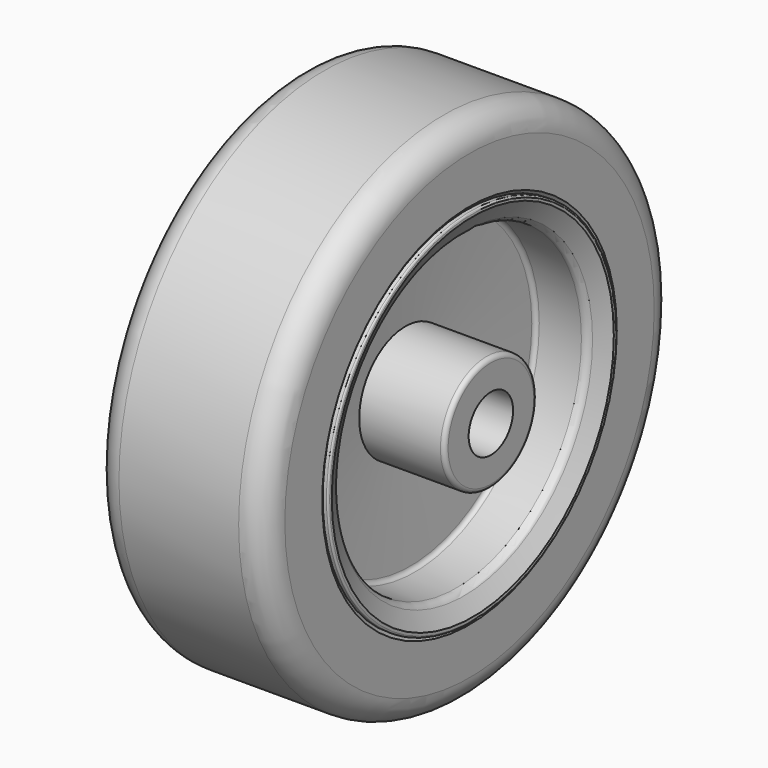
from build123d import *


with BuildPart() as f1:
    # F0 (on Top) → F1 (revolve)
    with BuildSketch(Plane.XY):
        with BuildLine():
            Line((7, 30), (0, 30))
            Line((0, 30), (-7, 30))
            ThreePointArc((-7, 30), (-9.12132, 29.12132), (-10, 27))
            Line((-10, 27), (-10, 21.532534))
            Line((-10, 21.532534), (-8.990306, 20.039031))
            Line((-8.990306, 20.039031), (0, 20.039031))
            Line((0, 20.039031), (8.990306, 20.039031))
            Line((8.990306, 20.039031), (10, 21.532534))
            Line((10, 21.532534), (10, 27))
            ThreePointArc((10, 27), (9.12132, 29.12132), (7, 30))
        make_face()
        with BuildLine():
            Line((-12.5, 3.25), (0, 3.25))
            Line((0, 3.25), (12.5, 3.25))
            Line((12.5, 3.25), (12.5, 6.25))
            ThreePointArc((12.5, 6.25), (12.353553, 6.603553), (12, 6.75))
            Line((12, 6.75), (2.5, 6.75))
            Line((2.5, 6.75), (3.077031, 17.760408))
            ThreePointArc((3.077031, 17.760408), (3.232168, 18.096927), (3.576346, 18.23424))
            Line((3.576346, 18.23424), (8.503839, 18.23424))
            ThreePointArc((8.503839, 18.23424), (9.017088, 18.376), (9.38482, 18.761087))
            Line((9.38482, 18.761087), (10.384191, 20.621855))
            Line((10.384191, 20.621855), (10.384191, 20.938821))
            ThreePointArc((10.384191, 20.938821), (10.325612, 21.080242), (10.184191, 21.138821))
            Line((10.184191, 21.138821), (9.739559, 21.138821))
            Line((9.739559, 21.138821), (9, 20))
            Line((9, 20), (0, 20))
            Line((0, 20), (-9, 20))
            Line((-9, 20), (-9.739559, 21.138821))
            Line((-9.739559, 21.138821), (-10.184191, 21.138821))
            ThreePointArc((-10.184191, 21.138821), (-10.325612, 21.080242), (-10.384191, 20.938821))
            Line((-10.384191, 20.938821), (-10.384191, 20.621855))
            Line((-10.384191, 20.621855), (-9.38482, 18.761087))
            ThreePointArc((-9.38482, 18.761087), (-9.017088, 18.376), (-8.503839, 18.23424))
            Line((-8.503839, 18.23424), (-3.576346, 18.23424))
            ThreePointArc((-3.576346, 18.23424), (-3.232168, 18.096927), (-3.077031, 17.760408))
            Line((-3.077031, 17.760408), (-2.5, 6.75))
            Line((-2.5, 6.75), (-12, 6.75))
            ThreePointArc((-12, 6.75), (-12.353553, 6.603553), (-12.5, 6.25))
            Line((-12.5, 6.25), (-12.5, 3.25))
        make_face()
    revolve(axis=Axis((-20.44471, 0, 0), (-1, 0, 0)))


solid = f1.part
